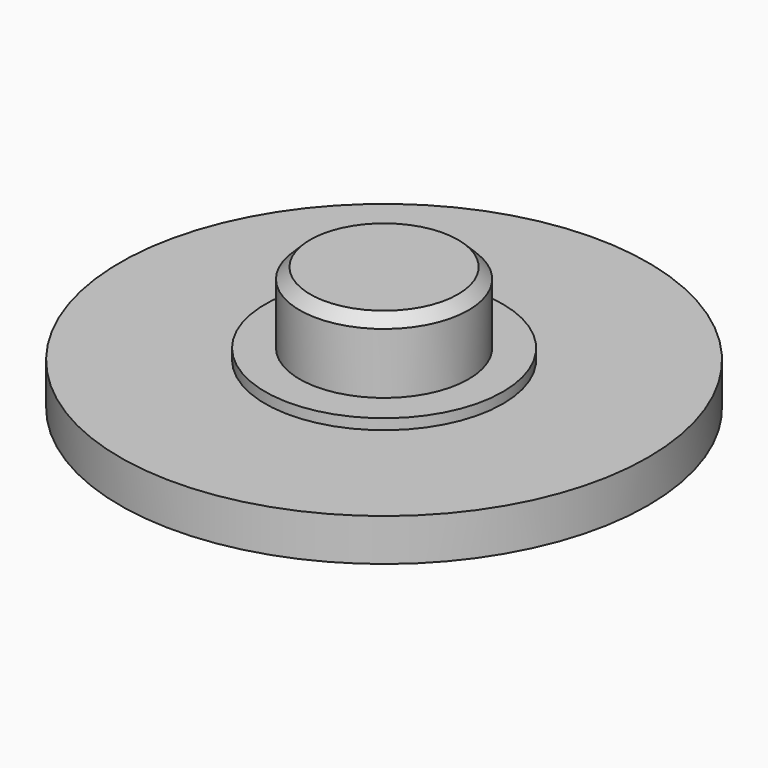
from build123d import *

# Parameters (mm, degrees)
F0_R     = 12.7
F1_DEPTH = 2.032
F2_R     = 4.064
F3_DEPTH = 5.969
F4_SIZE  = 0.508
F5_R     = 5.715
F6_DEPTH = 2.54


with BuildPart() as f1:
    # F0 (on Top) → F1 (new body)
    with BuildSketch(Plane.XY):
        Circle(F0_R)
    extrude(amount=F1_DEPTH)

    # F2 (on Top) → F3 (join)
    with BuildSketch(Plane.XY):
        Circle(F2_R)
    extrude(amount=F3_DEPTH)

    # F4
    f4_edges = [f1.edges().sort_by_distance(p)[0] for p in [
        (-4.064, 0, 5.969),
    ]]
    chamfer(f4_edges, length=F4_SIZE)

    # F5 (on Top) → F6 (join)
    with BuildSketch(Plane.XY):
        Circle(F5_R)
    extrude(amount=F6_DEPTH)


solid = f1.part
